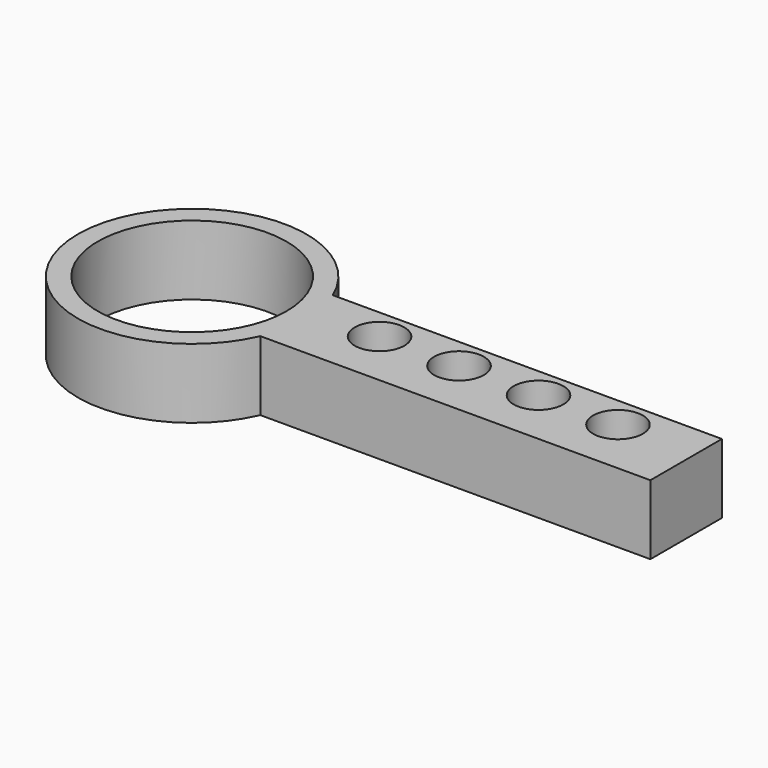
from build123d import *

# Parameters (mm, degrees)
F0_R     = 2.5
F0_R_2   = 9.5
F1_DEPTH = 7


with BuildPart() as f1:
    # F0 (on Top) → F1 (new body)
    with BuildSketch(Plane.XY):
        with BuildLine():
            Line((-11.739115, 17.399689), (-50.914015, 17.399689))
            ThreePointArc((-50.914015, 17.399689), (-50.25996, 15.242918), (-50.039115, 13))
            ThreePointArc((-50.039115, 13), (-50.281727, 10.650273), (-50.999326, 8.399689))
            Line((-50.999326, 8.399689), (-11.739115, 8.399689))
            Line((-11.739115, 8.399689), (-11.739115, 17.399689))
        make_face()
        with Locations((-43.639115, 14.199689)):
            Circle(F0_R, mode=Mode.SUBTRACT)
        with Locations((-35.639115, 14.199689)):
            Circle(F0_R, mode=Mode.SUBTRACT)
        with Locations((-27.639115, 14.199689)):
            Circle(F0_R, mode=Mode.SUBTRACT)
        with Locations((-19.639115, 14.199689)):
            Circle(F0_R, mode=Mode.SUBTRACT)
        with BuildLine():
            Line((-51.539115, 8.399689), (-51.539115, 17.399689))
            Line((-51.539115, 17.399689), (-50.914015, 17.399689))
            ThreePointArc((-50.914015, 17.399689), (-73.038598, 13.109003), (-50.999326, 8.399689))
            Line((-50.999326, 8.399689), (-51.539115, 8.399689))
        make_face()
        with Locations((-61.539115, 13)):
            Circle(F0_R_2, mode=Mode.SUBTRACT)
        with BuildLine():
            Line((-50.914015, 17.399689), (-51.539115, 17.399689))
            Line((-51.539115, 17.399689), (-51.539115, 8.399689))
            Line((-51.539115, 8.399689), (-50.999326, 8.399689))
            ThreePointArc((-50.999326, 8.399689), (-50.281727, 10.650273), (-50.039115, 13))
            ThreePointArc((-50.039115, 13), (-50.25996, 15.242918), (-50.914015, 17.399689))
        make_face()
    extrude(amount=F1_DEPTH)


solid = f1.part
